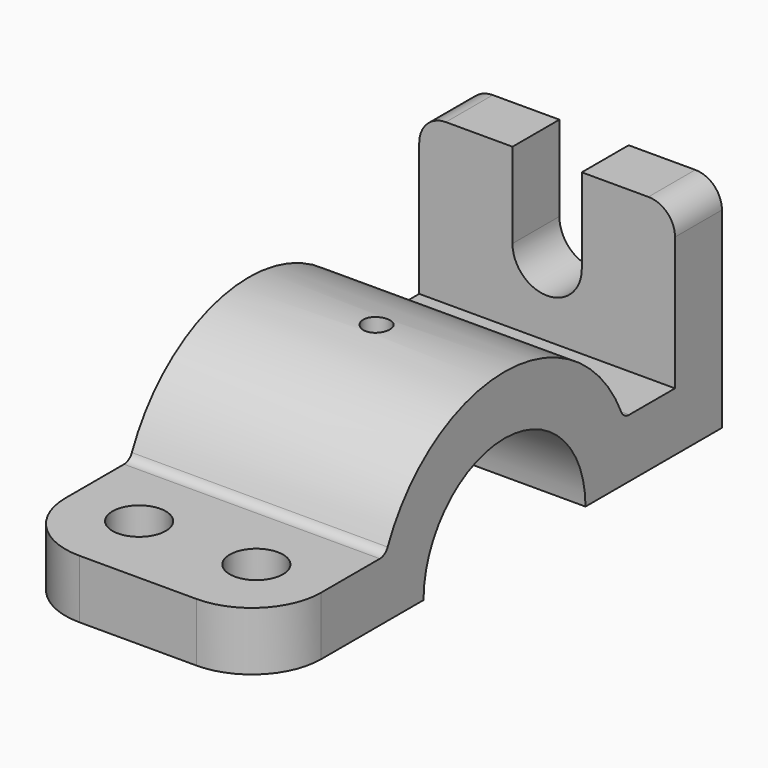
from build123d import *

# Parameters (mm, degrees)
F0_W     = 11
F0_H     = 30
F1_DEPTH = 24
F3_DEPTH = 11
F4_R     = 2.5
F4_R_2   = 5
F5_DEPTH = 41.001
F6_R     = 13
F7_R     = 5
F8_R     = 2


with BuildPart() as f1:
    # F0 (on Right) → F1 (new body, symmetric)
    with BuildSketch(Plane.YZ):
        with BuildLine():
            Line((-56, 0), (-30, 0))
            ThreePointArc((-30, 0), (-29.4730143031, 5.5983415304), (-27.9105714739, 11))
            Line((-27.9105714739, 11), (-56, 11))
            Line((-56, 11), (-56, 0))
        make_face()
        with BuildLine():
            Line((-30, 0), (-19, 0))
            ThreePointArc((-19, 0), (-18.1017503893, 5.7729223833), (-15.4919333848, 11))
            Line((-15.4919333848, 11), (-27.9105714739, 11))
            ThreePointArc((-27.9105714739, 11), (-29.4730143031, 5.5983415304), (-30, 0))
        make_face()
        with BuildLine():
            ThreePointArc((15.4919333848, 11), (18.1017503893, 5.7729223833), (19, 0))
            Line((19, 0), (30, 0))
            ThreePointArc((30, 0), (29.4730143031, 5.5983415304), (27.9105714739, 11))
            Line((27.9105714739, 11), (15.4919333848, 11))
        make_face()
        with BuildLine():
            ThreePointArc((-15.4919333848, 11), (0, 19), (15.4919333848, 11))
            Line((15.4919333848, 11), (27.9105714739, 11))
            ThreePointArc((27.9105714739, 11), (0, 30), (-27.9105714739, 11))
            Line((-27.9105714739, 11), (-15.4919333848, 11))
        make_face()
        with BuildLine():
            ThreePointArc((27.9105714739, 11), (29.4730143031, 5.5983415304), (30, 0))
            Line((30, 0), (51, 0))
            Line((51, 0), (51, 11))
            Line((51, 11), (40, 11))
            Line((40, 11), (27.9105714739, 11))
        make_face()
        with Locations((45.5, 26)):
            Rectangle(F0_W, F0_H)
    extrude(amount=F1_DEPTH, both=True)

    # F2 (on face) → F3 (cut, through all)
    with BuildSketch(Plane(origin=(0, 51, 0), x_dir=(-1, 0, 0), z_dir=(0, 1, 0))):
        with BuildLine():
            ThreePointArc((-6.5, 25), (0, 18.5), (6.5, 25))
            ThreePointArc((6.5, 25), (0, 31.5), (-6.5, 25))
        make_face()
        with BuildLine():
            ThreePointArc((-6.5, 25), (0, 31.5), (6.5, 25))
            Line((6.5, 25), (6.5, 41))
            Line((6.5, 41), (-6.5, 41))
            Line((-6.5, 41), (-6.5, 25))
        make_face()
    extrude(amount=-F3_DEPTH, mode=Mode.SUBTRACT)

    # F4 (on Top) → F5 (cut, through all)
    with BuildSketch(Plane.XY):
        Circle(F4_R)
        with Locations((-11, -41.955285737)):
            Circle(F4_R_2)
        with Locations((11, -41.955285737)):
            Circle(F4_R_2)
    extrude(amount=F5_DEPTH, mode=Mode.SUBTRACT)

    # F6
    f6_edges = [f1.edges().sort_by_distance(p)[0] for p in [
        (24, -56, 5.5),
        (-24, -56, 5.5),
    ]]
    fillet(f6_edges, radius=F6_R)

    # F7
    f7_edges = [f1.edges().sort_by_distance(p)[0] for p in [
        (24, 45.5, 41),
        (-24, 45.5, 41),
    ]]
    fillet(f7_edges, radius=F7_R)

    # F8
    f8_edges = [f1.edges().sort_by_distance(p)[0] for p in [
        (0, -27.910571, 11),
        (0, 27.910571, 11),
    ]]
    fillet(f8_edges, radius=F8_R)


solid = f1.part
